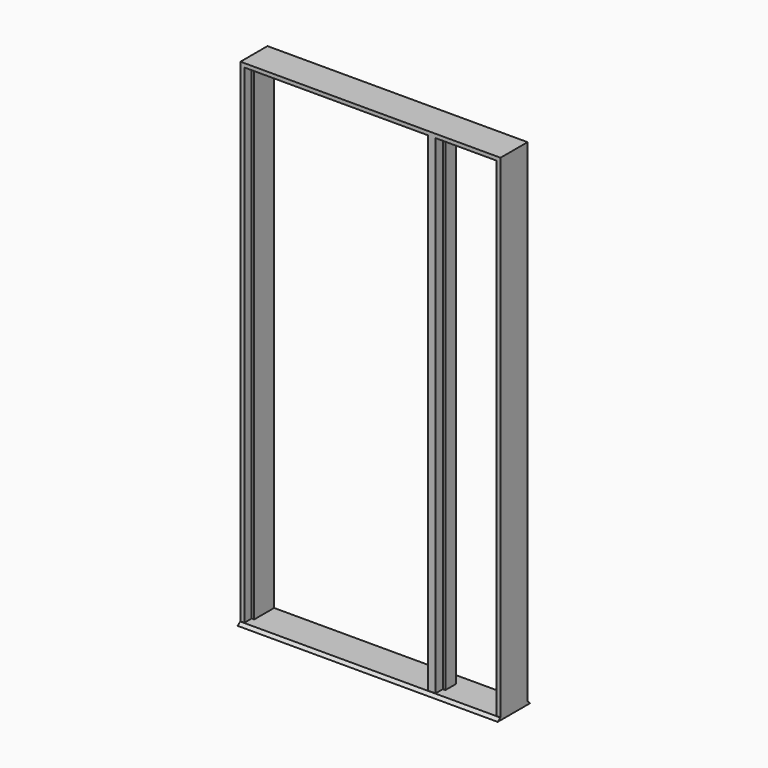
from build123d import *

# Parameters (mm, degrees)
F2_DEPTH      = 2454.275
F4_DEPTH      = 168.276
F6_DEPTH      = 952.5
F6_DEPTH_BACK = 342.9
F8_DEPTH      = 342.9
F8_DEPTH_BACK = 952.5


with BuildPart() as f2:
    # F1 (on Top) → F2 (new body)
    with BuildSketch(Plane.XY):
        Polygon((-952.5, 168.275), (-952.5, 0), (-933.45, 0), (-933.45, 46.0375), (-920.75, 46.0375), (-920.75, 168.275), align=None)
    extrude(amount=F2_DEPTH)


with BuildPart() as f2b:
    # F1 (on Top) → F2, piece 2 (new body)
    with BuildSketch(Plane.XY):
        Polygon((-31.75, 46.0375), (-19.05, 46.0375), (-19.05, 0), (19.05, 0), (19.05, 46.0375), (31.75, 46.0375), (31.75, 111.125), (-31.75, 111.125), align=None)
    extrude(amount=F2_DEPTH)


with BuildPart() as f2c:
    # F1 (on Top) → F2, piece 3 (new body)
    with BuildSketch(Plane.XY):
        Polygon((311.15, 46.0375), (323.85, 46.0375), (323.85, 0), (342.9, 0), (342.9, 168.275), (311.15, 168.275), align=None)
    extrude(amount=F2_DEPTH)


with BuildPart() as f4_tool:
    # F3 (on Front) → F4 (new body, through all)
    with BuildSketch(Plane.XZ):
        Polygon((-31.75, 2454.275), (-952.5, 2454.275), (-492.125, 1993.9), align=None)
        Polygon((342.9, 2454.275), (31.75, 2454.275), (187.325, 2298.7), align=None)
    extrude(amount=-F4_DEPTH)


with BuildPart() as f2_1:
    add(f2.part)

    # F4: cut by f4_tool
    add(f4_tool.part, mode=Mode.SUBTRACT)


    add(f2b.part)  # F6 merges F2b


with BuildPart() as f2c_1:
    add(f2c.part)

    # F4: cut by f4_tool
    add(f4_tool.part, mode=Mode.SUBTRACT)


with BuildPart() as f2_2:
    add(f2_1.part)

    add(f2c_1.part)  # F6 merges F2c
    # F5 (on Right) → F6 (join, two sides)
    with BuildSketch(Plane.YZ) as f6_sk:
        Polygon((168.275, 2422.525), (168.275, 2454.275), (0, 2454.275), (0, 2435.225), (46.0375, 2435.225), (46.0375, 2422.525), align=None)
    extrude(amount=-F6_DEPTH)
    extrude(f6_sk.sketch, amount=F6_DEPTH_BACK)

    # F7 (on Right) → F8 (join, two sides)
    with BuildSketch(Plane.YZ) as f8_sk:
        Polygon((-17.4625, -12.7), (84.1375, -12.7), (185.7375, -12.7), (169.8625, 0), (84.1375, 0), (-1.5875, 0), align=None)
    extrude(amount=F8_DEPTH)
    extrude(f8_sk.sketch, amount=-F8_DEPTH_BACK)


solid = f2_2.part
